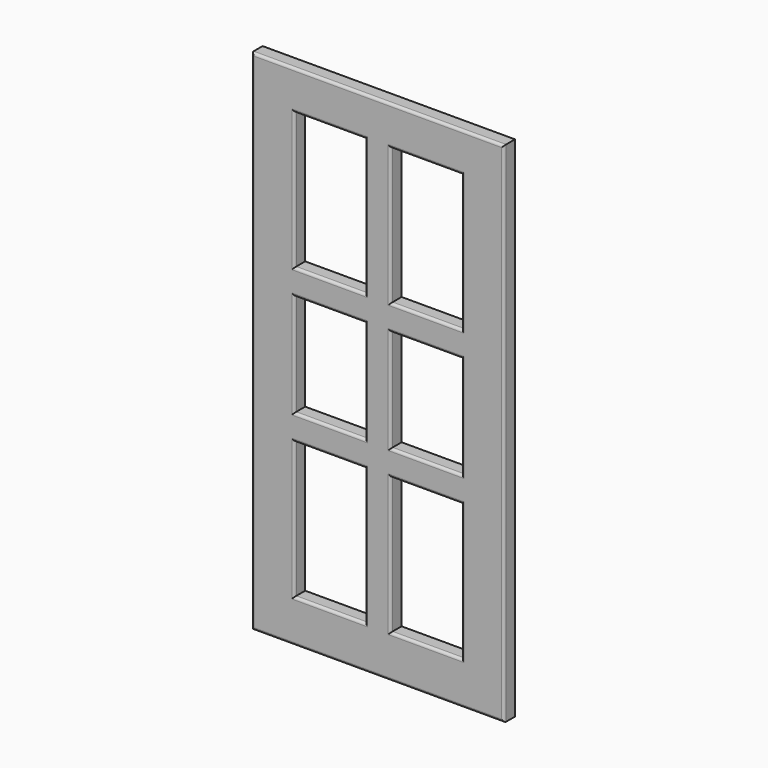
from build123d import *

# Parameters (mm, degrees)
F0_W      = 28.8499742746
F0_H      = 37.8827601671
F1_DEPTH  = 16
F2_DEPTH  = 296
F3_DEPTH  = 996
F4_W      = 199.8313069344
F4_H      = 801.1276721954
F5_DEPTH  = 5
F6_DEPTH  = 39.21
F7_DEPTH  = 2.24
F8_DEPTH  = 55.66
F9_DEPTH  = 1.59
F10_W     = 54.77245152
F10_H     = 895.9976721954
F11_DEPTH = 5
F12_DEPTH = 5.86
F13_DEPTH = 18.91
F14_W     = 83.0026693535
F14_H     = 34.9487662315
F14_H_2   = 55.274695158
F15_W     = 82.9961860609
F15_H     = 44.8832511902
F15_H_2   = 52.5203943253
F16_DEPTH = 5
F17_DEPTH = 300
F18_DEPTH = 300
F19_DEPTH = 324.79
F20_DEPTH = 324.79
F21_DEPTH = 250
F22_DEPTH = 250
F23_DEPTH = 100
F24_DEPTH = 100
F25_DEPTH = 50
F26_DEPTH = 50
F27_DEPTH = 134.02
F28_DEPTH = 100
F29_DEPTH = 100
F30_DEPTH = 100
F31_DEPTH = 50
F32_DEPTH = 54.95
F33_DEPTH = 50
F34_DEPTH = 109.29
F35_DEPTH = 14.88
F36_DEPTH = 230.15
F37_DEPTH = 230.15
F38_DEPTH = 22.52
F39_DEPTH = 77.2
F40_DEPTH = 77.2
F41_DEPTH = 11
F42_DEPTH = 100
F43_DEPTH = 100
F44_DEPTH = 195.99
F45_DEPTH = 195.99
F46_DEPTH = 295.99
F47_DEPTH = 295.99
F48_DEPTH = 100
F49_DEPTH = 104.01
F50_DEPTH = 20
F51_DEPTH = 20
F52_DEPTH = 20
F53_DEPTH = 80
F54_DEPTH = 80
F55_DEPTH = 20
F56_DEPTH = 20
F57_DEPTH = 20
F58_DEPTH = 20
F59_R     = 3


with BuildPart() as f1:
    # F0 (on Front) → F1 (new body)
    with BuildSketch(Plane.XZ):
        with Locations((14.4249871373, 18.9413800836)):
            Rectangle(F0_W, F0_H)
    extrude(amount=F1_DEPTH)

    # F2 (add): a face of the model
    f2_faces = [f1.faces().sort_by_distance(p)[0] for p in [
        (0, -8, 18.9413800836),
    ]]
    extrude(f2_faces, amount=-F2_DEPTH)

    # F3 (add): a face of the model
    f3_faces = [f1.faces().sort_by_distance(p)[0] for p in [
        (148, -8, 0),
    ]]
    extrude(f3_faces, amount=-F3_DEPTH)

    # F4 (on face) → F5 (cut)
    with BuildSketch(Plane.XZ.offset(16)):
        with Locations((148.3252942562, 506.2239170074)):
            Rectangle(F4_W, F4_H)
    extrude(amount=-F5_DEPTH, mode=Mode.SUBTRACT)

    # F6 (cut): a face of the model
    f6_faces = [f1.faces().sort_by_distance(p)[0] for p in [
        (148.3252942562, -13.5, 906.7877531052),
    ]]
    extrude(f6_faces, amount=-F6_DEPTH, mode=Mode.SUBTRACT)

    # F7 (add): a face of the model
    f7_faces = [f1.faces().sort_by_distance(p)[0] for p in [
        (248.2409477234, -13.5, 525.8289170074),
    ]]
    extrude(f7_faces, amount=F7_DEPTH)

    # F8 (cut): a face of the model
    f8_faces = [f1.faces().sort_by_distance(p)[0] for p in [
        (147.2052942562, -13.5, 105.6600809097),
    ]]
    extrude(f8_faces, amount=-F8_DEPTH, mode=Mode.SUBTRACT)

    # F9 (add): a face of the model
    f9_faces = [f1.faces().sort_by_distance(p)[0] for p in [
        (48.409640789, -13.5, 497.9989170074),
    ]]
    extrude(f9_faces, amount=F9_DEPTH)

    # F10 (on face) → F11 (join)
    with BuildSketch(Plane.XZ.offset(11)):
        with Locations((154.5285359025, 497.9989170074)):
            Rectangle(F10_W, F10_H)
    extrude(amount=F11_DEPTH)

    # F12 (cut): a face of the model
    f12_faces = [f1.faces().sort_by_distance(p)[0] for p in [
        (127.1423101425, -13.5, 497.9989170074),
    ]]
    extrude(f12_faces, amount=-F12_DEPTH, mode=Mode.SUBTRACT)

    # F13 (cut): a face of the model
    f13_faces = [f1.faces().sort_by_distance(p)[0] for p in [
        (181.9147616625, -13.5, 497.9989170074),
    ]]
    extrude(f13_faces, amount=-F13_DEPTH, mode=Mode.SUBTRACT)

    # F14 (on face) + F15 (on face) → F16 (join)
    with BuildSketch(Plane.XZ.offset(11)):
        with Locations((91.5009754658, 853.3093035221)):
            Rectangle(F14_W, F14_H)
        with Locations((91.5009754658, 511.6568356752)):
            Rectangle(F14_W, F14_H_2)
    with BuildSketch(Plane.XZ.offset(11)):
        with Locations((204.5028546929, 853.7013530731)):
            Rectangle(F15_W, F15_H)
        with Locations((204.5028546929, 576.5425562859)):
            Rectangle(F15_W, F15_H_2)
    extrude(amount=F16_DEPTH)

    # F17 (add): faces of the model
    f17_faces = [f1.faces().sort_by_distance(p)[0] for p in [
        (204.5028546929, -13.5, 550.2823591232),
        (91.5009754658, -13.5, 484.0194880962),
    ]]
    extrude(f17_faces, amount=F17_DEPTH)

    # F18 (cut): faces of the model
    f18_faces = [f1.faces().sort_by_distance(p)[0] for p in [
        (91.5009754658, -13.5, 539.2941832542),
        (204.5028546929, -13.5, 602.8027534485),
    ]]
    extrude(f18_faces, amount=-F18_DEPTH, mode=Mode.SUBTRACT)

    # F19 (add): a face of the model
    f19_faces = [f1.faces().sort_by_distance(p)[0] for p in [
        (91.5009754658, -13.5, 835.8349204063),
    ]]
    extrude(f19_faces, amount=F19_DEPTH)

    # F20 (cut): a face of the model
    f20_faces = [f1.faces().sort_by_distance(p)[0] for p in [
        (91.5009754658, -13.5, 870.7836866379),
    ]]
    extrude(f20_faces, amount=-F20_DEPTH, mode=Mode.SUBTRACT)

    # F21 (add): a face of the model
    f21_faces = [f1.faces().sort_by_distance(p)[0] for p in [
        (91.5009754658, -13.5, 239.2941832542),
    ]]
    extrude(f21_faces, amount=F21_DEPTH)

    # F22 (cut): a face of the model
    f22_faces = [f1.faces().sort_by_distance(p)[0] for p in [
        (91.5009754658, -13.5, 184.0194880962),
    ]]
    extrude(f22_faces, amount=-F22_DEPTH, mode=Mode.SUBTRACT)

    # F23 (add): a face of the model
    f23_faces = [f1.faces().sort_by_distance(p)[0] for p in [
        (91.5009754658, -13.5, 545.9936866379),
    ]]
    extrude(f23_faces, amount=F23_DEPTH)

    # F24 (cut): a face of the model
    f24_faces = [f1.faces().sort_by_distance(p)[0] for p in [
        (91.5009754658, -13.5, 511.0449204063),
    ]]
    extrude(f24_faces, amount=-F24_DEPTH, mode=Mode.SUBTRACT)

    # F25 (add): a face of the model
    f25_faces = [f1.faces().sort_by_distance(p)[0] for p in [
        (91.5009754658, -13.5, 645.9936866379),
    ]]
    extrude(f25_faces, amount=F25_DEPTH)

    # F26 (cut): a face of the model
    f26_faces = [f1.faces().sort_by_distance(p)[0] for p in [
        (91.5009754658, -13.5, 611.0449204063),
    ]]
    extrude(f26_faces, amount=-F26_DEPTH, mode=Mode.SUBTRACT)

    # F27 (add): a face of the model
    f27_faces = [f1.faces().sort_by_distance(p)[0] for p in [
        (91.5009754658, -13.5, 434.0194880962),
    ]]
    extrude(f27_faces, amount=F27_DEPTH)

    # F28 (cut): a face of the model
    f28_faces = [f1.faces().sort_by_distance(p)[0] for p in [
        (91.5009754658, -13.5, 299.9994880962),
    ]]
    extrude(f28_faces, amount=-F28_DEPTH, mode=Mode.SUBTRACT)

    # F29 (add): a face of the model
    f29_faces = [f1.faces().sort_by_distance(p)[0] for p in [
        (91.5009754658, -13.5, 661.0449204063),
    ]]
    extrude(f29_faces, amount=F29_DEPTH)

    # F30 (cut): a face of the model
    f30_faces = [f1.faces().sort_by_distance(p)[0] for p in [
        (91.5009754658, -13.5, 695.9936866379),
    ]]
    extrude(f30_faces, amount=-F30_DEPTH, mode=Mode.SUBTRACT)

    # F31 (add): a face of the model
    f31_faces = [f1.faces().sort_by_distance(p)[0] for p in [
        (91.5009754658, -13.5, 595.9936866379),
    ]]
    extrude(f31_faces, amount=F31_DEPTH)

    # F32 (cut): a face of the model
    f32_faces = [f1.faces().sort_by_distance(p)[0] for p in [
        (91.5009754658, -13.5, 561.0449204063),
    ]]
    extrude(f32_faces, amount=-F32_DEPTH, mode=Mode.SUBTRACT)

    # F33 (add): a face of the model
    f33_faces = [f1.faces().sort_by_distance(p)[0] for p in [
        (91.5009754658, -13.5, 399.9994880962),
    ]]
    extrude(f33_faces, amount=F33_DEPTH)

    # F34 (cut): a face of the model
    f34_faces = [f1.faces().sort_by_distance(p)[0] for p in [
        (91.5009754658, -13.5, 489.2941832542),
    ]]
    extrude(f34_faces, amount=-F34_DEPTH, mode=Mode.SUBTRACT)

    # F35 (cut): a face of the model
    f35_faces = [f1.faces().sort_by_distance(p)[0] for p in [
        (204.5028546929, -13.5, 831.259727478),
    ]]
    extrude(f35_faces, amount=-F35_DEPTH, mode=Mode.SUBTRACT)

    # F36 (add): a face of the model
    f36_faces = [f1.faces().sort_by_distance(p)[0] for p in [
        (204.5028546929, -13.5, 846.139727478),
    ]]
    extrude(f36_faces, amount=F36_DEPTH)

    # F37 (cut): a face of the model
    f37_faces = [f1.faces().sort_by_distance(p)[0] for p in [
        (204.5028546929, -13.5, 876.1429786682),
    ]]
    extrude(f37_faces, amount=-F37_DEPTH, mode=Mode.SUBTRACT)

    # F38 (cut): a face of the model
    f38_faces = [f1.faces().sort_by_distance(p)[0] for p in [
        (204.5028546929, -13.5, 250.2823591232),
    ]]
    extrude(f38_faces, amount=-F38_DEPTH, mode=Mode.SUBTRACT)

    # F39 (add): a face of the model
    f39_faces = [f1.faces().sort_by_distance(p)[0] for p in [
        (204.5028546929, -13.5, 302.8027534485),
    ]]
    extrude(f39_faces, amount=F39_DEPTH)

    # F40 (cut): a face of the model
    f40_faces = [f1.faces().sort_by_distance(p)[0] for p in [
        (204.5028546929, -13.5, 272.8023591232),
    ]]
    extrude(f40_faces, amount=-F40_DEPTH, mode=Mode.SUBTRACT)

    # F41 (cut): faces of the model
    f41_faces = [f1.faces().sort_by_distance(p)[0] for p in [
        (91.5009754658, -11, 795.9957198715),
        (204.5028546929, -11, 795.9953658867),
        (204.5028546929, -11, 497.9962404633),
        (91.5009754658, -11, 497.9995518303),
        (91.5009754658, -11, 199.999784503),
        (204.5028546929, -11, 200.0012200165),
    ]]
    extrude(f41_faces, amount=-F41_DEPTH, mode=Mode.SUBTRACT)

    # F42 (add): faces of the model
    f42_faces = [f1.faces().sort_by_distance(p)[0] for p in [
        (91.5009754658, -8, 349.9994880962),
        (204.5028546929, -8, 350.0023591232),
    ]]
    extrude(f42_faces, amount=F42_DEPTH)

    # F43 (cut): faces of the model
    f43_faces = [f1.faces().sort_by_distance(p)[0] for p in [
        (91.5009754658, -8, 380.0041832542),
        (204.5028546929, -8, 380.0027534485),
    ]]
    extrude(f43_faces, amount=-F43_DEPTH, mode=Mode.SUBTRACT)

    # F44 (add): faces of the model
    f44_faces = [f1.faces().sort_by_distance(p)[0] for p in [
        (91.5009754658, -8, 615.9949204063),
        (204.5028546929, -8, 615.989727478),
    ]]
    extrude(f44_faces, amount=F44_DEPTH)

    # F45 (cut): faces of the model
    f45_faces = [f1.faces().sort_by_distance(p)[0] for p in [
        (91.5009754658, -8, 645.9936866379),
        (204.5028546929, -8, 645.9929786682),
    ]]
    extrude(f45_faces, amount=-F45_DEPTH, mode=Mode.SUBTRACT)

    # F46 (add): faces of the model
    f46_faces = [f1.faces().sort_by_distance(p)[0] for p in [
        (91.5009754658, -8, 945.9977531052),
        (204.5028546929, -8, 945.9977531052),
    ]]
    extrude(f46_faces, amount=F46_DEPTH)

    # F47 (cut): a face of the model
    f47_faces = [f1.faces().sort_by_distance(p)[0] for p in [
        (148, -8, 996),
    ]]
    extrude(f47_faces, amount=-F47_DEPTH, mode=Mode.SUBTRACT)

    # F48 (add): faces of the model
    f48_faces = [f1.faces().sort_by_distance(p)[0] for p in [
        (204.5028546929, -8, 650.0077531052),
        (91.5009754658, -8, 650.0077531052),
    ]]
    extrude(f48_faces, amount=F48_DEPTH)

    # F49 (cut): a face of the model
    f49_faces = [f1.faces().sort_by_distance(p)[0] for p in [
        (148, -8, 700.01),
    ]]
    extrude(f49_faces, amount=-F49_DEPTH, mode=Mode.SUBTRACT)

    # F50 (add): a face of the model
    f50_faces = [f1.faces().sort_by_distance(p)[0] for p in [
        (91.5009754658, -8, 249.9994880962),
    ]]
    extrude(f50_faces, amount=F50_DEPTH)

    # F51 (add): a face of the model
    f51_faces = [f1.faces().sort_by_distance(p)[0] for p in [
        (204.5028546929, -8, 250.0023591232),
    ]]
    extrude(f51_faces, amount=F51_DEPTH)

    # F52 (cut): faces of the model
    f52_faces = [f1.faces().sort_by_distance(p)[0] for p in [
        (91.5009754658, -8, 280.0041832542),
        (204.5028546929, -8, 280.0027534485),
    ]]
    extrude(f52_faces, amount=-F52_DEPTH, mode=Mode.SUBTRACT)

    # F53 (add): faces of the model
    f53_faces = [f1.faces().sort_by_distance(p)[0] for p in [
        (204.5028546929, -8, 419.999727478),
        (91.5009754658, -8, 420.0049204063),
    ]]
    extrude(f53_faces, amount=F53_DEPTH)

    # F54 (cut): faces of the model
    f54_faces = [f1.faces().sort_by_distance(p)[0] for p in [
        (91.5009754658, -8, 450.0036866379),
        (204.5028546929, -8, 450.0029786682),
    ]]
    extrude(f54_faces, amount=-F54_DEPTH, mode=Mode.SUBTRACT)

    # F55 (add): faces of the model
    f55_faces = [f1.faces().sort_by_distance(p)[0] for p in [
        (204.5028546929, -8, 370.0029786682),
        (91.5009754658, -8, 370.0036866379),
    ]]
    extrude(f55_faces, amount=F55_DEPTH)

    # F56 (cut): faces of the model
    f56_faces = [f1.faces().sort_by_distance(p)[0] for p in [
        (91.5009754658, -8, 340.0049204063),
        (204.5028546929, -8, 339.999727478),
    ]]
    extrude(f56_faces, amount=-F56_DEPTH, mode=Mode.SUBTRACT)

    # F57 (add): faces of the model
    f57_faces = [f1.faces().sort_by_distance(p)[0] for p in [
        (204.5028546929, -8, 230.0023591232),
        (91.5009754658, -8, 229.9994880962),
    ]]
    extrude(f57_faces, amount=F57_DEPTH)

    # F58 (cut): faces of the model
    f58_faces = [f1.faces().sort_by_distance(p)[0] for p in [
        (204.5028546929, -8, 260.0027534485),
        (91.5009754658, -8, 260.0041832542),
    ]]
    extrude(f58_faces, amount=-F58_DEPTH, mode=Mode.SUBTRACT)

    # F59
    f59_edges = [f1.edges().sort_by_distance(p)[0] for p in [
        (0, -16, 298),
        (148, -16, 0),
        (296, -16, 298),
        (148, -16, 596),
        (133.00231, -16, 129.999785),
        (91.500975, -16, 50.000081),
        (49.999641, -16, 129.999785),
        (91.500975, -16, 209.999488),
        (246.000948, -16, 130.00122),
        (204.502855, -16, 50.000081),
        (163.004762, -16, 130.00122),
        (204.502855, -16, 210.002359),
        (246.000948, -16, 300.00124),
        (204.502855, -16, 240.002753),
        (163.004762, -16, 300.00124),
        (204.502855, -16, 359.999727),
        (133.00231, -16, 300.004552),
        (91.500975, -16, 240.004183),
        (49.999641, -16, 300.004552),
        (91.500975, -16, 360.00492),
        (49.999641, -16, 470.00572),
        (91.500975, -16, 550.007753),
        (133.00231, -16, 470.00572),
        (91.500975, -16, 390.003687),
        (163.004762, -16, 470.005366),
        (204.502855, -16, 550.007753),
        (246.000948, -16, 470.005366),
        (204.502855, -16, 390.002979),
    ]]
    fillet(f59_edges, radius=F59_R)


solid = f1.part
